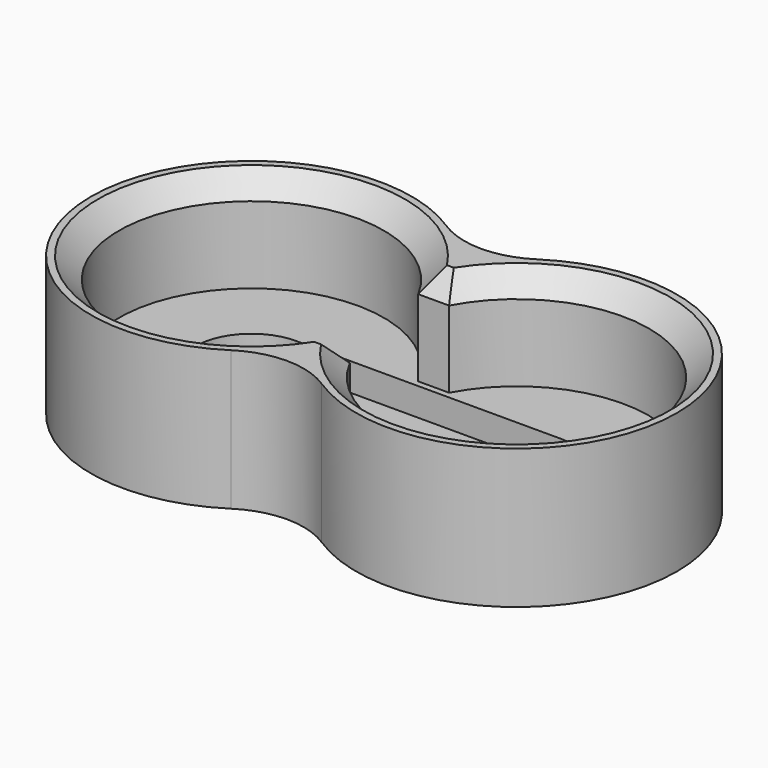
from build123d import *

# Parameters (mm, degrees)
F1_DEPTH = 1
F2_DEPTH = 3
F3_DEPTH = 10
F4_SIZE  = 1.5


with BuildPart() as f1:
    # F0 (on Top) → F1 (new body)
    with BuildSketch(Plane.XY):
        with BuildLine():
            Line((19, 4), (0, 4))
            ThreePointArc((0, 4), (-4, 0), (0, -4))
            Line((0, -4), (19, -4))
            ThreePointArc((19, -4), (23, 0), (19, 4))
        make_face()
        with BuildLine():
            Line((19, 4), (0, 4))
            ThreePointArc((0, 4), (-4, 0), (0, -4))
            Line((0, -4), (19, -4))
            ThreePointArc((19, -4), (23, 0), (19, 4))
        make_face()
    extrude(amount=F1_DEPTH)


with BuildPart() as f2:
    # F0 (on Top) → F2 (new body)
    with BuildSketch(Plane.XY):
        with BuildLine():
            Line((10.605263, 4.447291), (8.394737, 4.447291))
            ThreePointArc((8.394737, 4.447291), (-9.5, 0), (8.394737, -4.447291))
            Line((8.394737, -4.447291), (10.605263, -4.447291))
            ThreePointArc((10.605263, -4.447291), (28.5, 0), (10.605263, 4.447291))
        make_face()
        with BuildLine():
            ThreePointArc((0, -4), (-4, 0), (0, 4))
            Line((0, 4), (19, 4))
            ThreePointArc((19, 4), (23, 0), (19, -4))
            Line((19, -4), (0, -4))
        make_face(mode=Mode.SUBTRACT)
    extrude(amount=F2_DEPTH)

    # F0 (on Top) → F3 (join)
    with BuildSketch(Plane.XY):
        with BuildLine():
            ThreePointArc((12.757143, 9.657988), (9.5, 8.696938), (6.242857, 9.657988))
            ThreePointArc((6.242857, 9.657988), (-11.5, 0), (6.242857, -9.657988))
            ThreePointArc((6.242857, -9.657988), (9.5, -8.696938), (12.757143, -9.657988))
            ThreePointArc((12.757143, -9.657988), (30.5, 0), (12.757143, 9.657988))
        make_face()
        with BuildLine():
            ThreePointArc((8.394737, -4.447291), (-9.5, 0), (8.394737, 4.447291))
            Line((8.394737, 4.447291), (10.605263, 4.447291))
            ThreePointArc((10.605263, 4.447291), (28.5, 0), (10.605263, -4.447291))
            Line((10.605263, -4.447291), (8.394737, -4.447291))
        make_face(mode=Mode.SUBTRACT)
    extrude(amount=F3_DEPTH)

    # F4
    f4_edges = [f2.edges().sort_by_distance(p)[0] for p in [
        (-9.5, 0, 10),
        (28.5, 0, 10),
        (9.5, 4.447291, 10),
        (9.5, -4.447291, 10),
    ]]
    chamfer(f4_edges, length=F4_SIZE)


solid = Compound([f1.part, f2.part])
